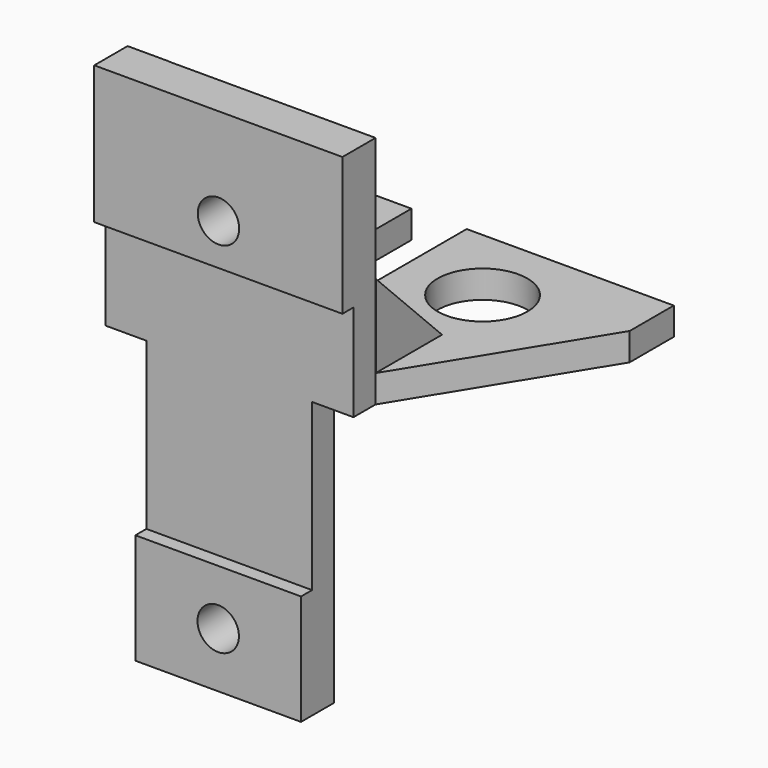
from build123d import *

# Parameters (mm, degrees)
BOX_W           = 34
BOX_H           = 17
BOX_DEPTH       = 2
SKETCH_R        = 3.25
POCKET_DEPTH    = 2
SKETCH001_W     = 6.4987877113
SKETCH001_H     = 3.187234
POCKET001_DEPTH = 2
POCKET002_DEPTH = 2
SKETCH003_W     = 12
SKETCH003_H     = 2
PAD_DEPTH       = 2
SKETCH004_W     = 12
SKETCH004_H     = 2
PAD001_DEPTH    = 15
SKETCH005_W     = 12
SKETCH005_H     = 2
PAD002_DEPTH    = 20
SKETCH006_W     = 2.977736
SKETCH006_H     = 2.018581
SKETCH006_W_2   = 3
SKETCH006_H_2   = 2
PAD003_DEPTH    = 17
SKETCH007_W     = 17.977736
SKETCH007_H     = 10
SKETCH007_W_2   = 12
SKETCH007_H_2   = 8
PAD004_DEPTH    = 1
SKETCH008_R     = 1.5
POCKET003_DEPTH = 3
SKETCH009_W     = 4
SKETCH009_H     = 13.706681
POCKET004_DEPTH = 2
PAD005_DEPTH    = 5.7283421443
PAD006_DEPTH    = 5.7506061443


with BuildPart() as part:
    # Box → Box (new body)
    with BuildSketch(Plane.XY):
        with Locations((17, 8.5)):
            Rectangle(BOX_W, BOX_H)
    extrude(amount=BOX_DEPTH)

    # Sketch → Pocket (cut)
    with BuildSketch(Plane.XY.offset(2)):
        with Locations((9.25, 11.25)):
            Circle(SKETCH_R)
        with Locations((24.75, 11.25)):
            Circle(SKETCH_R)
        with Locations((17, 3.25)):
            Circle(SKETCH_R)
    extrude(amount=-POCKET_DEPTH, mode=Mode.SUBTRACT)

    # Sketch001 → Pocket001 (cut)
    with BuildSketch(Plane.XY.offset(2)):
        with Locations((17, 1.593617)):
            Rectangle(SKETCH001_W, SKETCH001_H)
    extrude(amount=-POCKET001_DEPTH, mode=Mode.SUBTRACT)

    # Sketch002 → Pocket002 (cut)
    with BuildSketch(Plane.XY.offset(2)):
        Polygon((0, 0), (8, 0), (0, 13), align=None)
        Polygon((34, 0), (26, 0), (34, 13), align=None)
    extrude(amount=-POCKET002_DEPTH, mode=Mode.SUBTRACT)

    # Sketch003 → Pad (new body)
    with BuildSketch(Plane.XZ):
        with Locations((17, 1)):
            Rectangle(SKETCH003_W, SKETCH003_H)
    extrude(amount=PAD_DEPTH)

    # Sketch004 → Pad001 (new body)
    with BuildSketch(Plane.XY.offset(2)):
        with Locations((17, -1)):
            Rectangle(SKETCH004_W, SKETCH004_H)
    extrude(amount=PAD001_DEPTH)

    # Sketch005 → Pad002 (new body)
    with BuildSketch(Plane(origin=(0, 0, 0), x_dir=(1, 0, 0), z_dir=(0, 0, -1))):
        with Locations((17, 1)):
            Rectangle(SKETCH005_W, SKETCH005_H)
    extrude(amount=PAD002_DEPTH)

    # Sketch006 → Pad003 (new body)
    with BuildSketch(Plane(origin=(0, 0, 0), x_dir=(1, 0, 0), z_dir=(0, 0, -1))):
        with Locations((9.511132, 0.9907095)):
            Rectangle(SKETCH006_W, SKETCH006_H)
        with Locations((24.5, 1)):
            Rectangle(SKETCH006_W_2, SKETCH006_H_2)
    extrude(amount=-PAD003_DEPTH)

    # Sketch007 → Pad004 (new body)
    with BuildSketch(Plane.XZ.offset(2)):
        with Locations((17.011132, 12)):
            Rectangle(SKETCH007_W, SKETCH007_H)
        with Locations((17, -16)):
            Rectangle(SKETCH007_W_2, SKETCH007_H_2)
    extrude(amount=PAD004_DEPTH)

    # Sketch008 → Pocket003 (cut)
    with BuildSketch(Plane.XZ.offset(3)):
        with Locations((17.022264, 10)):
            Circle(SKETCH008_R)
        with Locations((17, -16)):
            Circle(SKETCH008_R)
    extrude(amount=-POCKET003_DEPTH, mode=Mode.SUBTRACT)

    # Sketch009 → Pocket004 (cut)
    with BuildSketch(Plane.XY.offset(2)):
        with Locations((17, 10.5939175)):
            Rectangle(SKETCH009_W, SKETCH009_H)
    extrude(amount=-POCKET004_DEPTH, mode=Mode.SUBTRACT)

    # Sketch010 → Pad005 (new body)
    with BuildSketch(Plane(origin=(8.022264, 0, 0), x_dir=(0, -1, 0), z_dir=(-1, 0, 0))):
        Polygon((-0.018581, 2), (-6.018581, 2), (-0.018581, 8), align=None)
    extrude(amount=-PAD005_DEPTH)

    # Sketch011 → Pad006 (new body)
    with BuildSketch(Plane.YZ.offset(26)):
        Polygon((0.018581, 8), (0.018581, 2), (6.018581, 2), align=None)
    extrude(amount=-PAD006_DEPTH)


solid = part.part
